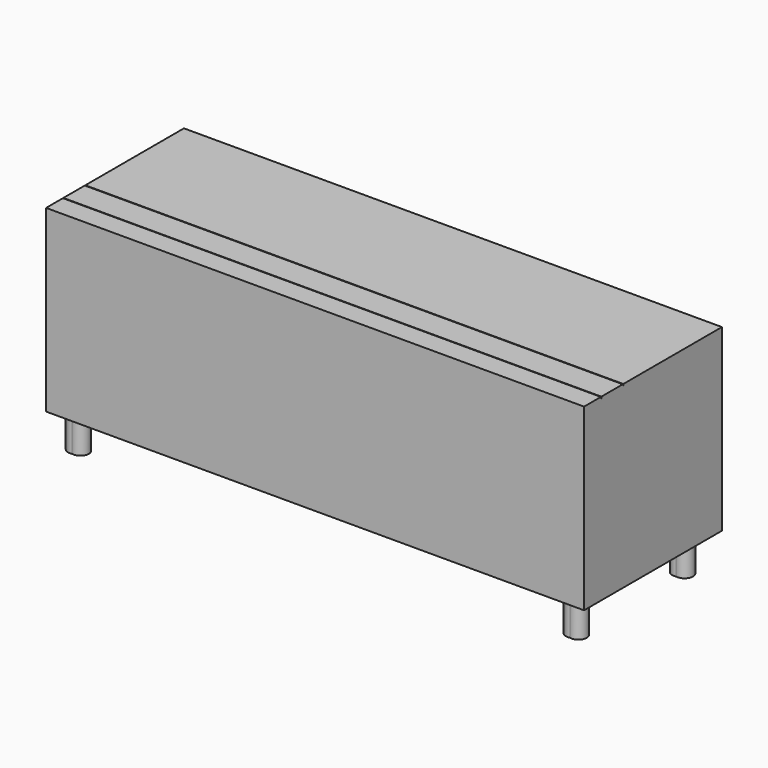
from build123d import *

# Parameters (mm, degrees)
F0_W      = 1219.2
F0_H      = 190.5
F0_W_2    = 1181.1
F0_H_2    = 152.4
F1_DEPTH  = 762
F2_W      = 1219.2
F2_H      = 190.5
F2_W_2    = 1181.1
F2_H_2    = 152.4
F3_DEPTH  = 762
F4_W      = 1219.2
F4_H      = 622.3
F4_W_2    = 1181.1
F4_H_2    = 584.2
F5_DEPTH  = 762
F6_W      = 1219.2
F6_H      = 622.3
F6_W_2    = 1181.1
F6_H_2    = 584.2
F7_DEPTH  = 762
F8_W      = 2438.4
F8_H      = 127
F9_DEPTH  = 6.35
F10_W     = 2438.4
F10_H     = 812.8
F11_DEPTH = 19.05
F12_R     = 38.1
F13_DEPTH = 152.4
F14_W     = 19.05
F14_H     = 152.4
F15_DEPTH = 762
F17_W     = 121.444046
F17_H     = 6.35
F18_DEPTH = 2438.4


with BuildPart() as f1:
    # F0 (on Front) → F1 (new body)
    with BuildSketch(Plane.XZ):
        with Locations((-609.6, 95.25)):
            Rectangle(F0_W, F0_H)
        with Locations((-609.6, 95.25)):
            Rectangle(F0_W_2, F0_H_2, mode=Mode.SUBTRACT)
    extrude(amount=F1_DEPTH)

    # F2 (on Front) → F3 (join)
    with BuildSketch(Plane.XZ):
        with Locations((609.6, 95.25)):
            Rectangle(F2_W, F2_H)
        with Locations((609.6, 95.25)):
            Rectangle(F2_W_2, F2_H_2, mode=Mode.SUBTRACT)
    extrude(amount=F3_DEPTH)

    # F4 (on Front) → F5 (join)
    with BuildSketch(Plane.XZ):
        with Locations((-609.6, -311.15)):
            Rectangle(F4_W, F4_H)
        with Locations((-609.6, -311.15)):
            Rectangle(F4_W_2, F4_H_2, mode=Mode.SUBTRACT)
    extrude(amount=F5_DEPTH)

    # F6 (on Front) → F7 (join)
    with BuildSketch(Plane.XZ):
        with Locations((609.6, -311.15)):
            Rectangle(F6_W, F6_H)
        with Locations((609.6, -311.15)):
            Rectangle(F6_W_2, F6_H_2, mode=Mode.SUBTRACT)
    extrude(amount=F7_DEPTH)

    # F8 (on face) → F9 (cut)
    with BuildSketch(Plane.XY.offset(190.5)):
        with Locations((0, -622.3)):
            Rectangle(F8_W, F8_H)
    extrude(amount=-F9_DEPTH, mode=Mode.SUBTRACT)

    # F10 (on face) → F11 (join)
    with BuildSketch(Plane.XZ.offset(762)):
        with Locations((0, -215.9)):
            Rectangle(F10_W, F10_H)
    extrude(amount=F11_DEPTH)

    # F12 (on face) → F13 (join)
    with BuildSketch(Plane(origin=(0, 0, -622.3), x_dir=(1, 0, 0), z_dir=(0, 0, -1))):
        with Locations((1119.462132, 109.381564)):
            Circle(F12_R)
        with Locations((-1137.543082, 710.901141)):
            Circle(F12_R)
        with Locations((1119.462132, 710.901141)):
            Circle(F12_R)
        with Locations((-1137.543082, 109.381564)):
            Circle(F12_R)
    extrude(amount=F13_DEPTH)

    # F14 (on face) → F15 (join, through all)
    with BuildSketch(Plane(origin=(0, 0, 0), x_dir=(-1, 0, 0), z_dir=(0, 1, 0))):
        with Locations((-609.6, 95.25)):
            Rectangle(F14_W, F14_H)
    extrude(amount=-F15_DEPTH)

    # F16: F1 across plane


with BuildPart() as f1_1:
    add(f1.part)
    add(f1.part.mirror(Plane.YZ))

    # F17 (on face) → F18 (join, through all)
    with BuildSketch(Plane.YZ.offset(1219.2)):
        with Locations((-622.395009, 187.325)):
            Rectangle(F17_W, F17_H)
    extrude(amount=-F18_DEPTH)


solid = f1_1.part
